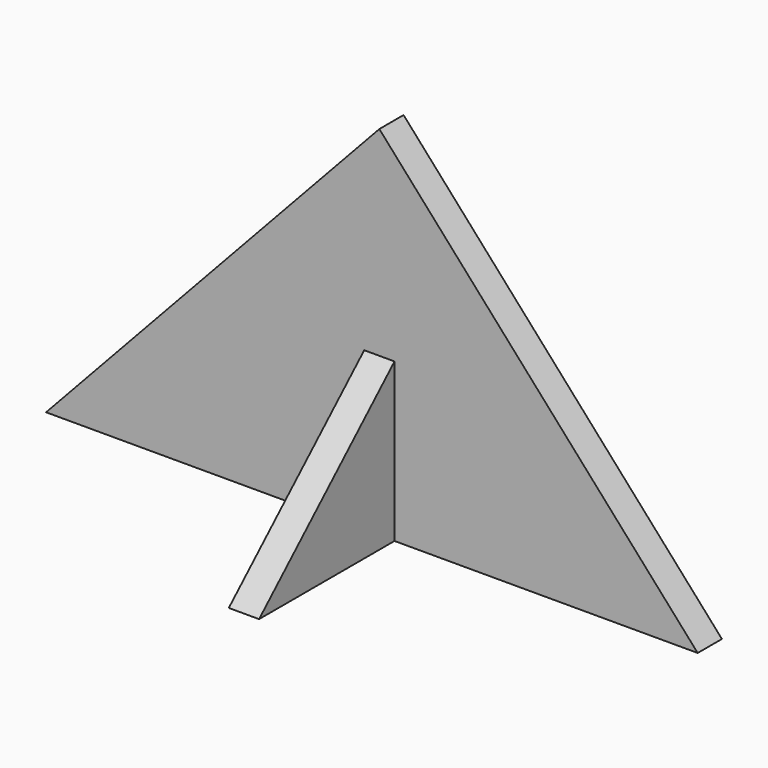
from build123d import *

# Parameters (mm, degrees)
F1_DEPTH = 1.27
F3_DEPTH = 1.27


with BuildPart() as f1:
    # F0 (on Front) → F1 (new body, symmetric)
    with BuildSketch(Plane.XZ):
        Polygon((-27.946377, 0), (0, 0), (0, 30), align=None)
        Polygon((0, 0), (26.693623, 0), (0, 30), align=None)
    extrude(amount=F1_DEPTH, both=True)

    # F2 (on Right) → F3 (join, symmetric)
    with BuildSketch(Plane.YZ):
        Polygon((15.177608, 0), (0, 14.442241), (-15.463607, 0), align=None)
    extrude(amount=F3_DEPTH, both=True)


solid = f1.part
